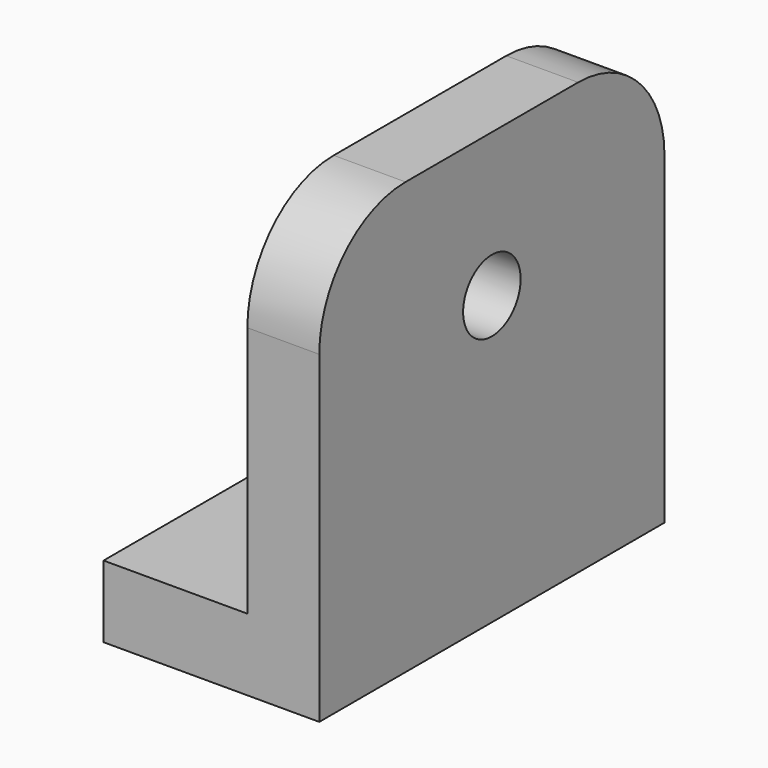
from build123d import *

# Parameters (mm, degrees)
F1_DEPTH      = 76.2
F1_DEPTH_BACK = 76.2
F2_R          = 12.7
F3_DEPTH      = 76.201
F5_DEPTH      = 25.401
F6_R          = 38.1
F7_R          = 38.1


with BuildPart() as f1:
    # F0 (on Front) → F1 (new body, two sides)
    with BuildSketch(Plane.XZ) as f1_sk:
        Polygon((-76.2, 0), (0, 0), (0, 152.4), (-25.4, 152.4), (-25.4, 25.4), (-76.2, 25.4), align=None)
    extrude(amount=F1_DEPTH)
    extrude(f1_sk.sketch, amount=-F1_DEPTH_BACK)

    # F2 (on face) → F3 (cut, through all)
    with BuildSketch(Plane.YZ):
        with Locations((0, 101.6)):
            Circle(F2_R)
    extrude(amount=-F3_DEPTH, mode=Mode.SUBTRACT)

    # F4 (on face) → F5 (cut, through all)
    with BuildSketch(Plane.XY.offset(25.4)):
        with BuildLine():
            Line((-63.5, 12.7), (-76.2, 12.7))
            Line((-76.2, 12.7), (-76.2, -12.7))
            Line((-76.2, -12.7), (-63.5, -12.7))
            ThreePointArc((-63.5, -12.7), (-50.8, 0), (-63.5, 12.7))
        make_face()
    extrude(amount=-F5_DEPTH, mode=Mode.SUBTRACT)

    # F6
    f6_edges = [f1.edges().sort_by_distance(p)[0] for p in [
        (-12.7, -76.2, 152.4),
    ]]
    fillet(f6_edges, radius=F6_R)

    # F7
    f7_edges = [f1.edges().sort_by_distance(p)[0] for p in [
        (-12.7, 76.2, 152.4),
    ]]
    fillet(f7_edges, radius=F7_R)


solid = f1.part
